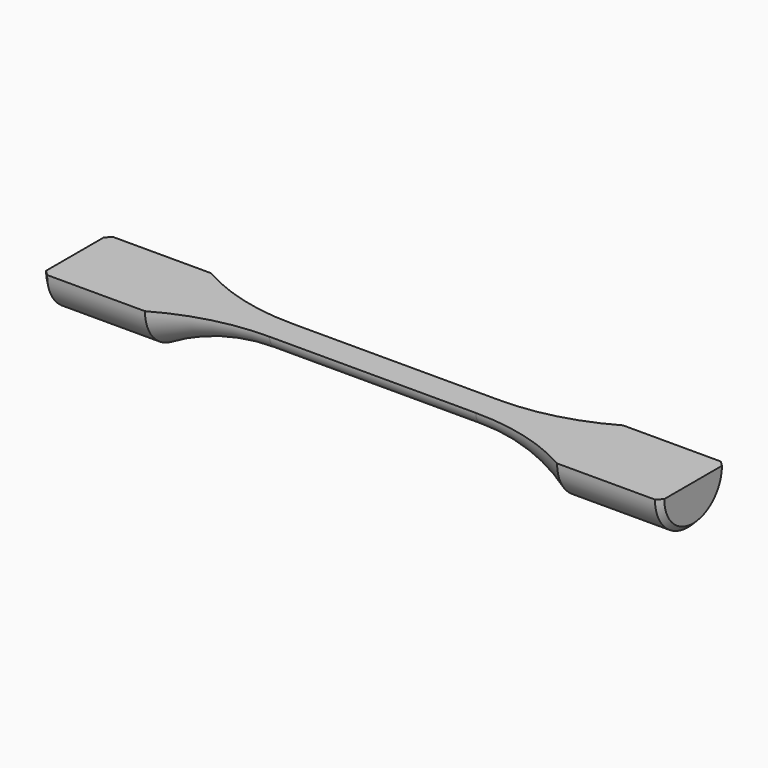
from build123d import *

# Parameters (mm, degrees)
F2_SIZE  = 0.1
F3_W     = 2.394506
F3_H     = 1.124954
F4_DEPTH = 12.001


with BuildPart() as f1:
    # F0 (on Top) → F1 (revolve)
    with BuildSketch(Plane.XY):
        with BuildLine():
            Line((-6, 0.8), (-6, 0))
            Line((-6, 0), (6, 0))
            Line((6, 0), (6, 0.8))
            Line((6, 0.8), (4, 0.8))
            ThreePointArc((4, 0.8), (3.034511, 0.406031), (2, 0.275))
            Line((2, 0.275), (0, 0.275))
            Line((0, 0.275), (-2, 0.275))
            ThreePointArc((-2, 0.275), (-3.034511, 0.406031), (-4, 0.8))
            Line((-4, 0.8), (-6, 0.8))
        make_face()
    revolve(axis=Axis((0, 0, 0), (1, 0, 0)))

    # F2
    f2_edges = [f1.edges().sort_by_distance(p)[0] for p in [
        (-6, -0.8, 0),
        (6, -0.8, 0),
    ]]
    chamfer(f2_edges, length=F2_SIZE)

    # F3 (on face) → F4 (cut, through all)
    with BuildSketch(Plane(origin=(-6, 0, 0), x_dir=(0, -1, 0), z_dir=(-1, 0, 0))):
        with Locations((-0.261201, 0.562477)):
            Rectangle(F3_W, F3_H)
    extrude(amount=-F4_DEPTH, mode=Mode.SUBTRACT)


solid = f1.part
